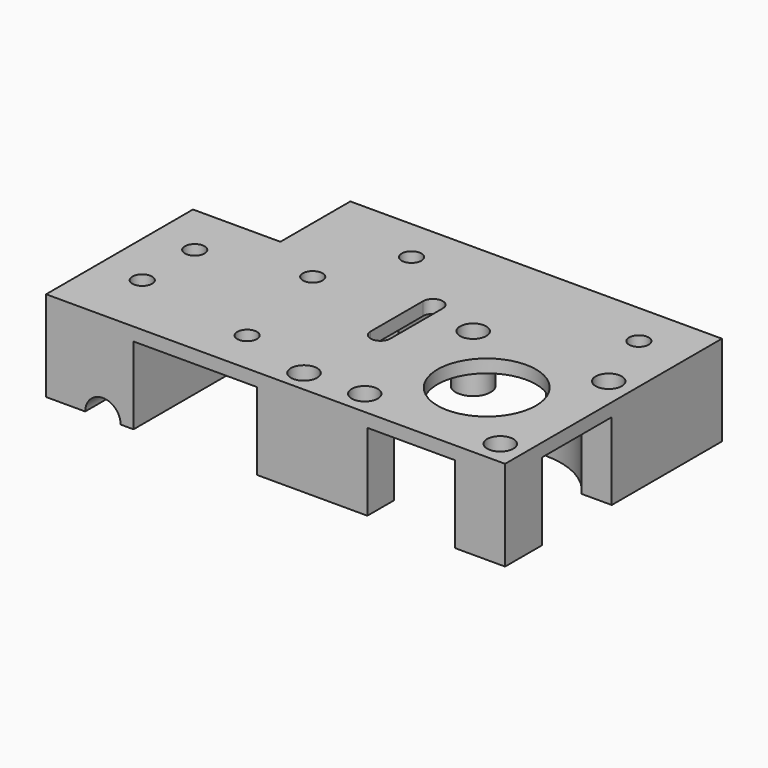
from build123d import *

# Parameters (mm, degrees)
SKETCH_R        = 2.25
SKETCH_R_2      = 11.25
SKETCH_R_3      = 1.75
PAD_DEPTH       = 20.7
POCKET_DEPTH    = 17.7
SKETCH002_R     = 4
PAD001_DEPTH    = 8
SKETCH003_R     = 3
POCKET001_DEPTH = 8
SKETCH004_R     = 1.75
POCKET002_DEPTH = 5
SKETCH005_R     = 4.05
POCKET003_DEPTH = 12
SKETCH006_R     = 1.75
POCKET004_DEPTH = 12.701


with BuildPart() as pocket_belt_path:
    # Sketch → Pad (new body)
    with BuildSketch(Plane.XY):
        Polygon((0, 0), (105, 0), (105, 62), (20, 62), (20, 42), (0, 42), align=None)
        with Locations((38, 10)):
            Circle(SKETCH_R, mode=Mode.SUBTRACT)
        with Locations((33, 35)):
            Circle(SKETCH_R, mode=Mode.SUBTRACT)
        with Locations((84, 21)):
            Circle(SKETCH_R_2, mode=Mode.SUBTRACT)
        with Locations((68.5, 36.5)):
            Circle(SKETCH_R_3, mode=Mode.SUBTRACT)
        with Locations((99.5, 36.5)):
            Circle(SKETCH_R_3, mode=Mode.SUBTRACT)
        with Locations((68.5, 5.5)):
            Circle(SKETCH_R_3, mode=Mode.SUBTRACT)
        with Locations((99.5, 5.5)):
            Circle(SKETCH_R_3, mode=Mode.SUBTRACT)
        with Locations((10, 30)):
            Circle(SKETCH_R, mode=Mode.SUBTRACT)
        with Locations((10, 15)):
            Circle(SKETCH_R, mode=Mode.SUBTRACT)
        with Locations((42, 52)):
            Circle(SKETCH_R, mode=Mode.SUBTRACT)
        with Locations((94, 52)):
            Circle(SKETCH_R, mode=Mode.SUBTRACT)
        with Locations((55, 5)):
            Circle(SKETCH_R_3, mode=Mode.SUBTRACT)
        with BuildLine():
            Line((58.75, 25.000001), (58.75, 40))
            ThreePointArc((58.75, 40), (56.5, 42.25), (54.25, 39.999999))
            Line((54.25, 25), (54.25, 39.999999))
            ThreePointArc((54.25, 25), (56.5, 22.75), (58.75, 25.000001))
        make_face(mode=Mode.SUBTRACT)
    extrude(amount=PAD_DEPTH)

    # Sketch001 → Pocket (cut)
    with BuildSketch(Plane.XY.offset(20.7)):
        with BuildLine():
            ThreePointArc((41.485277, 42), (39.015593, 44.209375), (35.999996, 45.583005))
            Line((35.999996, 67), (35.999996, 45.583005))
            Line((20, 67), (35.999996, 67))
            Line((20, -1), (20, 67))
            Line((20, -1), (48.252269, -1))
            Line((48.252269, 11), (48.252269, -1))
            Line((48.252269, 11), (70.252269, 11))
            ThreePointArc((70.252269, 11), (71.759618, 9.202833), (73.499996, 7.630258))
            Line((73.499996, 7.630258), (73.499996, -1))
            Line((73.499996, -1), (93.499996, -1))
            Line((93.499996, -1), (93.499996, 6.902128))
            ThreePointArc((93.499996, 6.902128), (95.574295, 8.548671), (97.367695, 10.497399))
            Line((105.499996, 10.497399), (97.367695, 10.497399))
            Line((105.499996, 30.497399), (105.499996, 10.497399))
            Line((98.099621, 30.497399), (105.499996, 30.497399))
            ThreePointArc((98.099621, 30.497399), (91.98574, 36.007594), (83.999996, 38))
            Line((83.999996, 38), (83.999996, 67))
            Line((83.999996, 67), (46.999996, 67))
            Line((46.999996, 67), (46.999996, 42))
            Line((41.485277, 42), (46.999996, 42))
        make_face()
    extrude(amount=-POCKET_DEPTH, mode=Mode.SUBTRACT)


with BuildPart() as pocket004:
    # Part__Mirroring: instance of Pocket belt path
    add(pocket_belt_path.part.mirror(Plane(origin=(52.5, 31, 0), x_dir=(0, 1, 0), z_dir=(0, 0, 1))))

    # Sketch002 → Pad001 (new body)
    with BuildSketch(Plane(origin=(0, 0, -3), x_dir=(1, 0, 0), z_dir=(0, 0, -1))):
        with Locations((68.5, -36.5)):
            Circle(SKETCH002_R)
    extrude(amount=PAD001_DEPTH)

    # Sketch003 → Pocket001 (cut)
    with BuildSketch(Plane.XY):
        with Locations((55, 5)):
            Circle(SKETCH003_R)
        with Locations((68.5, 36.5)):
            Circle(SKETCH003_R)
        with Locations((68.5, 5.5)):
            Circle(SKETCH003_R)
        with Locations((99.5, 36.5)):
            Circle(SKETCH003_R)
        with Locations((99.5, 5.5)):
            Circle(SKETCH003_R)
    extrude(amount=-POCKET001_DEPTH, mode=Mode.SUBTRACT)

    # Sketch004 → Pocket002 (cut)
    with BuildSketch(Plane.XY.offset(-8)):
        with Locations((94, 52)):
            Circle(SKETCH004_R)
    extrude(amount=-POCKET002_DEPTH, mode=Mode.SUBTRACT)

    # Sketch005 → Pocket003 (cut)
    with BuildSketch(Plane.XZ):
        with Locations((13, -20.7)):
            Circle(SKETCH005_R)
    extrude(amount=-POCKET003_DEPTH, mode=Mode.SUBTRACT)

    # Sketch006 → Pocket004 (cut, through all)
    with BuildSketch(Plane.XY.offset(-8)):
        with Locations((68.5, 36.5)):
            Circle(SKETCH006_R)
    extrude(amount=-POCKET004_DEPTH, mode=Mode.SUBTRACT)


solid = pocket004.part
